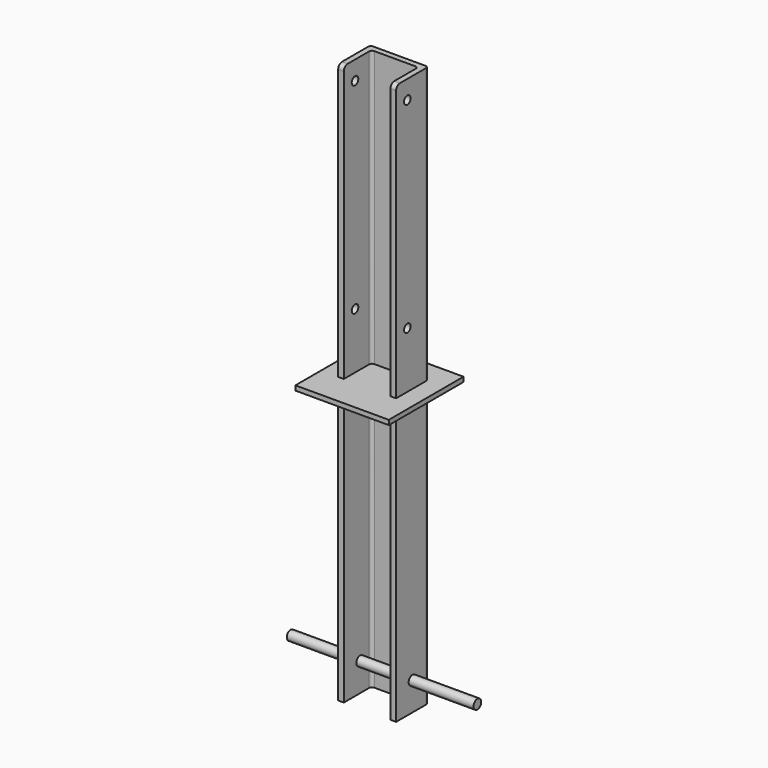
from build123d import *

# Parameters (mm, degrees)
F1_DEPTH = 300
F2_W     = 100
F2_H     = 100
F3_DEPTH = 5
F5_D     = 8.8
F6_R     = 5
F7_R     = 5.1189485143
F8_DEPTH = 100


with BuildPart() as f1:
    # F0 (on Top) → F1 (new body, symmetric)
    with BuildSketch(Plane.XY):
        with BuildLine():
            Line((-31.5497371938, -15.77975575), (-25.5497371938, -15.77975575))
            Line((-25.5497371938, -15.77975575), (-25.5497371938, 18.2202439159))
            ThreePointArc((-25.5497371938, 18.2202439159), (-24.6710575374, 20.3415642595), (-22.5497371938, 21.2202439159))
            Line((-22.5497371938, 21.2202439159), (21.4502628062, 21.2202439159))
            ThreePointArc((21.4502628062, 21.2202439159), (23.5715831497, 20.3415642595), (24.4502628062, 18.2202439159))
            Line((24.4502628062, 18.2202439159), (24.4502628062, -15.77975575))
            Line((24.4502628062, -15.77975575), (30.4502628062, -15.77975575))
            Line((30.4502628062, -15.77975575), (30.4502628062, 24.2202439159))
            ThreePointArc((30.4502628062, 24.2202439159), (29.5715831497, 26.3415642595), (27.4502628062, 27.2202439159))
            Line((27.4502628062, 27.2202439159), (-28.5497371938, 27.2202439159))
            ThreePointArc((-28.5497371938, 27.2202439159), (-30.6710575374, 26.3415642595), (-31.5497371938, 24.2202439159))
            Line((-31.5497371938, 24.2202439159), (-31.5497371938, -15.77975575))
        make_face()
    extrude(amount=F1_DEPTH, both=True)

    # F2 (on Top) → F3 (join)
    with BuildSketch(Plane.XY):
        Rectangle(F2_W, F2_H)
    extrude(amount=F3_DEPTH)

    # F5 (through all)
    with Locations(Plane(origin=(-31.5497371938, 0, 0), x_dir=(0, -1, 0), z_dir=(-1, 0, 0))):
        with Locations((0.77975575, 280), (0.77975575, 65)):
            Hole(F5_D / 2)

    # F6
    f6_edges = [f1.edges().sort_by_distance(p)[0] for p in [
        (-28.549737, -15.779756, 300),
        (27.450263, -15.779756, 300),
    ]]
    fillet(f6_edges, radius=F6_R)

    # F7 (on Right) → F8 (join, symmetric)
    with BuildSketch(Plane.YZ):
        with Locations((6.0703633353, -269.5238888264)):
            Circle(F7_R)
    extrude(amount=F8_DEPTH, both=True)


solid = f1.part
